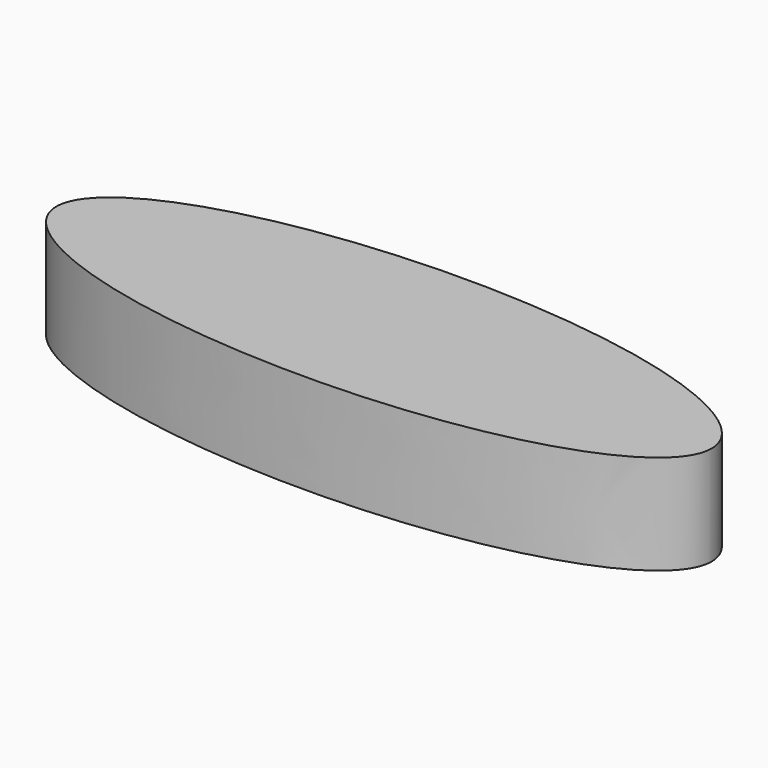
from build123d import *

# Parameters (mm, degrees)
F1_DEPTH = 19.05


with BuildPart() as f1:
    # F0 (on Top) → F1 (new body)
    with BuildSketch(Plane.XY):
        with BuildLine():
            add(Edge.make_bspline(
                [(62.70625, 0), (62.70625, 34.370383), (-31.353125, 17.185192), (-125.4125, 0), (-31.353125, -17.185192), (62.70625, -34.370383), (62.70625, 0)],
                knots=[0, 0, 0, 2.094395, 2.094395, 4.18879, 4.18879, 6.283185, 6.283185, 6.283185], degree=2, weights=[1, 0.5, 1, 0.5, 1, 0.5, 1]))
        make_face()
        with BuildLine():
            add(Edge.make_bspline(
                [(61.11875, 0), (61.11875, 32.858086), (-30.559375, 16.429043), (-122.2375, 0), (-30.559375, -16.429043), (61.11875, -32.858086), (61.11875, 0)],
                knots=[0, 0, 0, 2.094395, 2.094395, 4.18879, 4.18879, 6.283185, 6.283185, 6.283185], degree=2, weights=[1, 0.5, 1, 0.5, 1, 0.5, 1]))
        make_face(mode=Mode.SUBTRACT)
        with BuildLine():
            add(Edge.make_bspline(
                [(61.11875, 0), (61.11875, 32.858086), (-30.559375, 16.429043), (-122.2375, 0), (-30.559375, -16.429043), (61.11875, -32.858086), (61.11875, 0)],
                knots=[0, 0, 0, 2.094395, 2.094395, 4.18879, 4.18879, 6.283185, 6.283185, 6.283185], degree=2, weights=[1, 0.5, 1, 0.5, 1, 0.5, 1]))
        make_face()
    extrude(amount=-F1_DEPTH)


solid = f1.part
